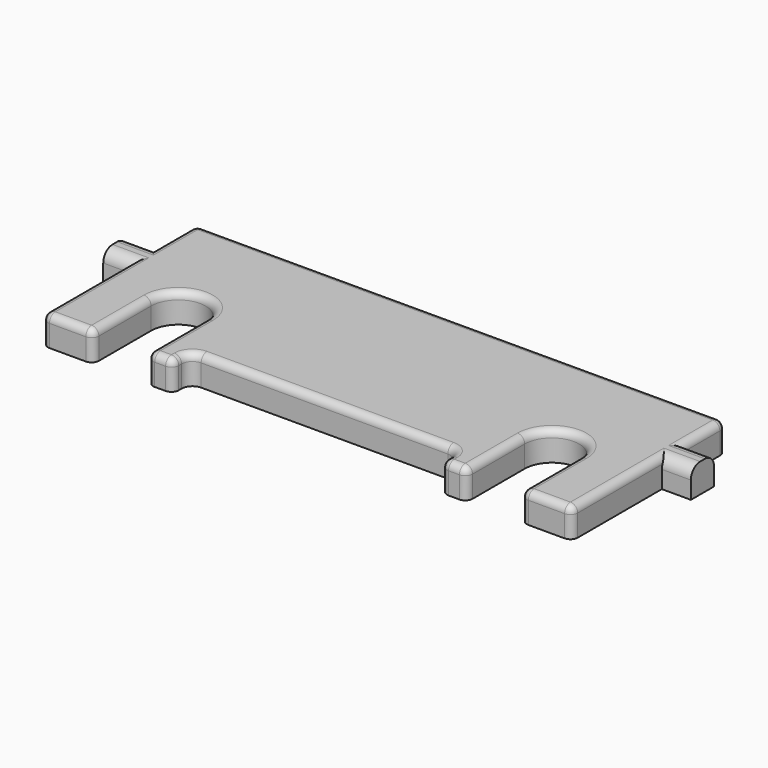
from build123d import *

# Parameters (mm, degrees)
F0_W     = 4
F0_H     = 4
F1_DEPTH = 4
F2_R     = 1.6
F3_R     = 1.5
F4_R     = 1


with BuildPart() as f1:
    # F0 (on Top) → F1 (new body)
    with BuildSketch(Plane.XY):
        with BuildLine():
            Line((36.5, 6.25), (36.5, 13.25))
            Line((36.5, 13.25), (-36.5, 13.25))
            Line((-36.5, 13.25), (-36.5, 6.25))
            Line((-36.5, 6.25), (-36.5, 2.25))
            Line((-36.5, 2.25), (-36.5, -13.25))
            Line((-36.5, -13.25), (-29.5, -13.25))
            Line((-29.5, -13.25), (-29.5, -3.25))
            ThreePointArc((-29.5, -3.25), (-25.75, 0.5), (-22, -3.25))
            Line((-22, -3.25), (-22, -13.25))
            Line((-22, -13.25), (-18.5, -13.25))
            Line((-18.5, -13.25), (-18.5, -10.25))
            Line((-18.5, -10.25), (18.5, -10.25))
            Line((18.5, -10.25), (18.5, -13.25))
            Line((18.5, -13.25), (22, -13.25))
            Line((22, -13.25), (22, -3.25))
            ThreePointArc((22, -3.25), (25.75, 0.5), (29.5, -3.25))
            Line((29.5, -3.25), (29.5, -13.25))
            Line((29.5, -13.25), (36.5, -13.25))
            Line((36.5, -13.25), (36.5, 2.25))
            Line((36.5, 2.25), (36.5, 6.25))
        make_face()
        with Locations((-38.5, 4.25)):
            Rectangle(F0_W, F0_H)
        with Locations((38.5, 4.25)):
            Rectangle(F0_W, F0_H)
    extrude(amount=F1_DEPTH)

    # F2
    f2_edges = [f1.edges().sort_by_distance(p)[0] for p in [
        (38.5, 6.25, 4),
        (38.5, 2.25, 4),
        (-38.5, 2.25, 4),
        (-38.5, 6.25, 4),
    ]]
    fillet(f2_edges, radius=F2_R)

    # F3
    f3_edges = [f1.edges().sort_by_distance(p)[0] for p in [
        (-18.5, -10.25, 2),
        (18.5, -10.25, 2),
    ]]
    fillet(f3_edges, radius=F3_R)

    # F4
    f4_edges = [f1.edges().sort_by_distance(p)[0] for p in [
        (-36.5, -13.25, 2),
        (-29.5, -13.25, 2),
        (-22, -13.25, 2),
        (-18.5, -13.25, 2),
        (18.5, -13.25, 2),
        (22, -13.25, 2),
        (29.5, -13.25, 2),
        (36.5, -13.25, 2),
        (-36.5, 13.25, 2),
        (36.5, 13.25, 2),
        (36.5, -5.5, 4),
        (0, 13.25, 4),
        (36.5, 9.75, 4),
        (-36.5, 9.75, 4),
        (-36.5, -5.5, 4),
        (-22, -8.25, 4),
        (22, -8.25, 4),
        (0, -10.25, 4),
        (-33, -13.25, 4),
        (33, -13.25, 4),
        (20.25, -13.25, 4),
        (-20.25, -13.25, 4),
    ]]
    fillet(f4_edges, radius=F4_R)


solid = f1.part
